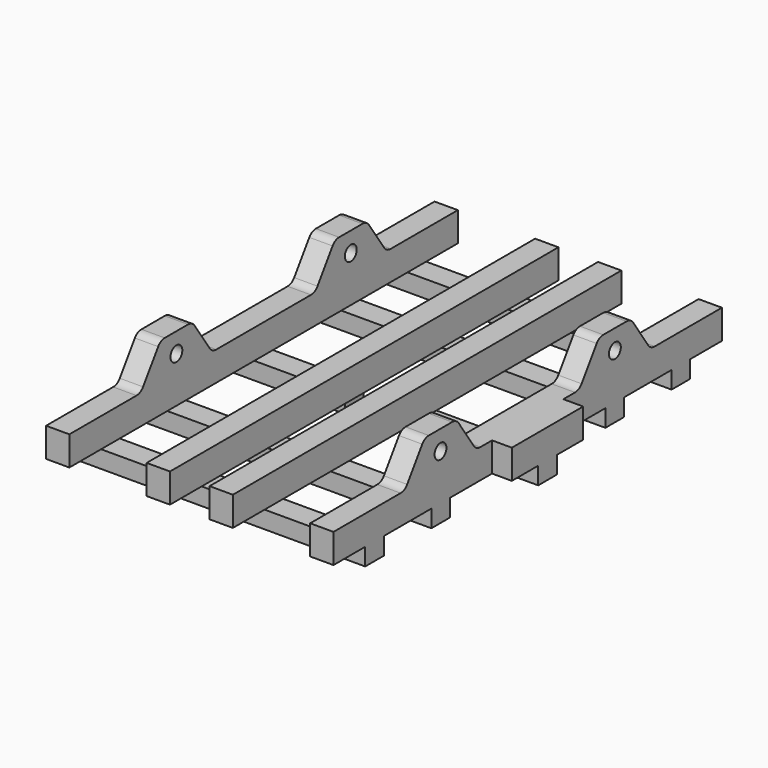
from build123d import *

# Parameters (mm, degrees)
F0_W      = 14.732
F0_H      = 1.1938
F1_DEPTH  = 0.889
F2_W      = 1.1938
F2_H      = 24.892
F3_DEPTH  = 1.4986
F4_R      = 0.381
F5_DEPTH  = 1.1938
F6_R      = 0.381
F7_DEPTH  = 1.1938
F8_R      = 0.508
F9_W      = 3.048
F9_H      = 1.1938
F10_DEPTH = 0.889
F11_W     = 1.016
F11_H     = 1.1938
F12_DEPTH = 2.3876
F13_W     = 4.572
F13_H     = 1.4986
F14_DEPTH = 1.016


with BuildPart() as f1:
    # F0 (on Top) → F1 (new body)
    with BuildSketch(Plane.XY):
        with Locations((0, 9.8171)):
            Rectangle(F0_W, F0_H)
    extrude(amount=F1_DEPTH)



with BuildPart() as f1b:
    # F0 (on Top) → F1, piece 2 (new body)
    with BuildSketch(Plane.XY):
        with Locations((0, -9.8171)):
            Rectangle(F0_W, F0_H)
    extrude(amount=F1_DEPTH)


with BuildPart() as f1c:
    # F0 (on Top) → F1, piece 3 (new body)
    with BuildSketch(Plane.XY):
        with Locations((0, -5.5753)):
            Rectangle(F0_W, F0_H)
    extrude(amount=F1_DEPTH)


with BuildPart() as f1d:
    # F0 (on Top) → F1, piece 4 (new body)
    with BuildSketch(Plane.XY):
        Rectangle(F0_W, F0_H)
    extrude(amount=F1_DEPTH)


with BuildPart() as f1e:
    # F0 (on Top) → F1, piece 5 (new body)
    with BuildSketch(Plane.XY):
        with Locations((0, 5.5753)):
            Rectangle(F0_W, F0_H)
    extrude(amount=F1_DEPTH)


with BuildPart() as f1_1:
    add(f1.part)

    add(f1b.part)  # F3 merges F1b

    add(f1c.part)  # F3 merges F1c

    add(f1d.part)  # F3 merges F1d

    add(f1e.part)  # F3 merges F1e
    # F2 (on face) → F3 (join)
    with BuildSketch(Plane.XY.offset(0.889)):
        with Locations((-6.7691, 0)):
            Rectangle(F2_W, F2_H)
        with Locations((6.7691, 0)):
            Rectangle(F2_W, F2_H)
        with Locations((-1.6129, 0)):
            Rectangle(F2_W, F2_H)
        with Locations((1.6129, 0)):
            Rectangle(F2_W, F2_H)
    extrude(amount=F3_DEPTH)

    # F4 (on face) → F5 (join)
    with BuildSketch(Plane(origin=(-7.366, 0, 0), x_dir=(0, -1, 0), z_dir=(-1, 0, 0))):
        Polygon((-6.604, 4.2545157337), (-7.874, 2.3876), (-3.302, 2.3876), (-4.572, 4.2545157337), align=None)
        with Locations((-5.588, 3.2385157337)):
            Circle(F4_R, mode=Mode.SUBTRACT)
        Polygon((4.572, 4.2545157337), (3.302, 2.3876), (7.874, 2.3876), (6.604, 4.2545157337), align=None)
        with Locations((5.588, 3.2385157337)):
            Circle(F4_R, mode=Mode.SUBTRACT)
    extrude(amount=-F5_DEPTH)

    # F6 (on face) → F7 (join)
    with BuildSketch(Plane.YZ.offset(7.366)):
        Polygon((-6.604, 4.2545157337), (-7.874, 2.3876), (-3.302, 2.3876), (-4.572, 4.2545157337), align=None)
        with Locations((-5.588, 3.2385157337)):
            Circle(F6_R, mode=Mode.SUBTRACT)
        Polygon((3.302, 2.3876), (7.874, 2.3876), (6.604, 4.2545157337), (4.572, 4.2545157337), align=None)
        with Locations((5.588, 3.2385157337)):
            Circle(F6_R, mode=Mode.SUBTRACT)
    extrude(amount=-F7_DEPTH)

    # F8
    f8_edges = [f1_1.edges().sort_by_distance(p)[0] for p in [
        (6.7691, -4.572, 4.254516),
        (6.7691, -6.604, 4.254516),
        (6.7691, -3.302, 2.3876),
        (6.7691, -7.874, 2.3876),
        (6.7691, 4.572, 4.254516),
        (6.7691, 3.302, 2.3876),
        (6.7691, 6.604, 4.254516),
        (6.7691, 7.874, 2.3876),
        (-6.7691, 7.874, 2.3876),
        (-6.7691, 6.604, 4.254516),
        (-6.7691, 4.572, 4.254516),
        (-6.7691, 3.302, 2.3876),
        (-6.7691, -7.874, 2.3876),
        (-6.7691, -6.604, 4.254516),
        (-6.7691, -4.572, 4.254516),
        (-6.7691, -3.302, 2.3876),
    ]]
    fillet(f8_edges, radius=F8_R)

    # F9 (on face) → F10 (cut, through all)
    with BuildSketch(Plane(origin=(0, 0, 0), x_dir=(1, 0, 0), z_dir=(0, 0, -1))):
        Rectangle(F9_W, F9_H)
    extrude(amount=-F10_DEPTH, mode=Mode.SUBTRACT)

    # F11 (on face) → F12 (join, through all)
    with BuildSketch(Plane(origin=(0, 0, 0), x_dir=(1, 0, 0), z_dir=(0, 0, -1))):
        with Locations((7.874, 0)):
            Rectangle(F11_W, F11_H)
    extrude(amount=-F12_DEPTH)

    # F13 (on face) → F14 (join, through all)
    with BuildSketch(Plane.YZ.offset(8.382)):
        with Locations((0, 1.6383)):
            Rectangle(F13_W, F13_H)
    extrude(amount=-F14_DEPTH)


solid = f1_1.part
